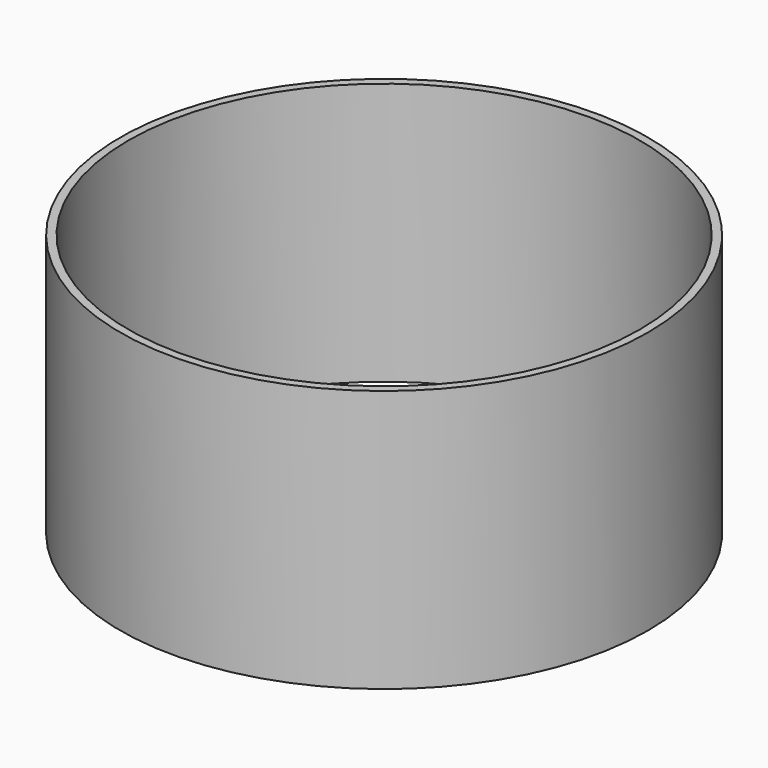
from build123d import *

# Parameters (mm, degrees)
SKETCH002_R     = 51.1048
PAD001_DEPTH    = 50.8
SKETCH003_R     = 49.53
POCKET001_DEPTH = 50.801


with BuildPart() as part:
    # Sketch002 → Pad001 (new body)
    with BuildSketch(Plane.XY):
        Circle(SKETCH002_R)
    extrude(amount=PAD001_DEPTH)

    # Sketch003 (on Face3 of Pad001) → Pocket001 (cut, through all)
    with BuildSketch(Plane.XY.offset(50.8)):
        Circle(SKETCH003_R)
    extrude(amount=-POCKET001_DEPTH, mode=Mode.SUBTRACT)


solid = part.part
